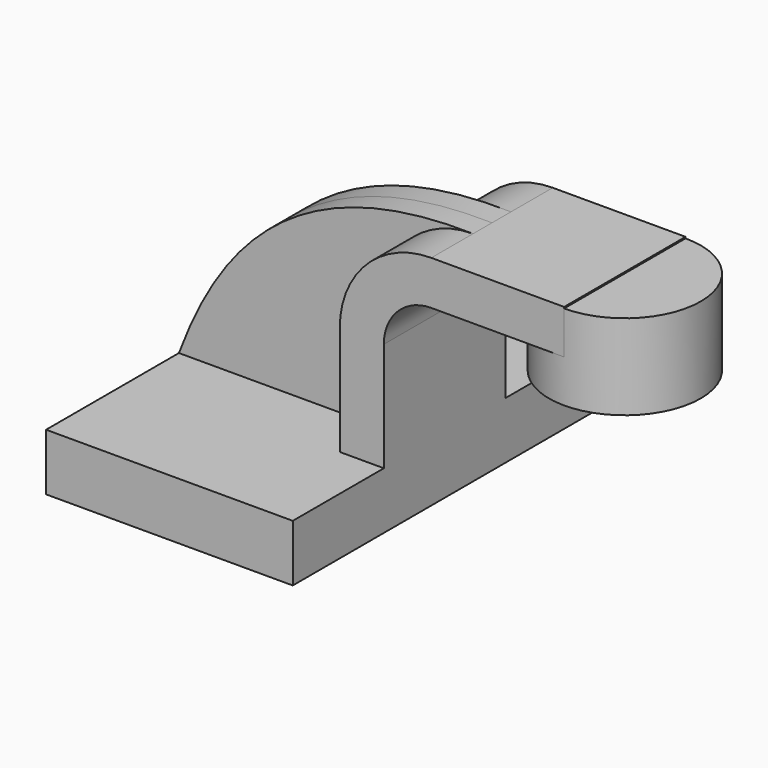
from build123d import *

# Parameters (mm, degrees)
F1_DEPTH = 63.5
F0_W     = 25.4
F0_H     = 14.2875
F2_DEPTH = 25.4
F3_DEPTH = 7.9375


with BuildPart() as f1:
    # F0 (on Front) → F1 (new body, symmetric)
    with BuildSketch(Plane.XZ):
        Polygon((41.275, -9.525), (41.275, 9.525), (26.524457, 9.525), (-41.275, 9.525), (-41.275, -9.525), align=None)
    extrude(amount=F1_DEPTH, both=True)

    # F0 (on Front) → F2 (join, symmetric)
    with BuildSketch(Plane.XZ):
        with BuildLine():
            Line((26.524457, 9.525), (41.275, 9.525))
            Line((41.275, 9.525), (41.275, 46.0502))
            ThreePointArc((41.275, 46.0502), (45.92468, 57.27552), (57.15, 61.9252))
            Line((57.15, 61.9252), (76.2, 61.9252))
            Line((76.2, 61.9252), (76.2, 76.2127))
            Line((76.2, 76.2127), (101.6, 76.2127))
            Line((101.6, 76.2127), (101.6, 76.675743))
            Line((101.6, 76.675743), (57.15, 76.675743))
            ThreePointArc((57.15, 76.675743), (35.494471, 67.705729), (26.524457, 46.0502))
            Line((26.524457, 46.0502), (26.524457, 9.525))
        make_face()
        with Locations((88.9, 69.06895)):
            Rectangle(F0_W, F0_H)
    extrude(amount=F2_DEPTH, both=True)

    # F0 (on Front) → F3 (join, symmetric)
    with BuildSketch(Plane.XZ):
        with BuildLine():
            Line((-41.275, 9.525), (26.524457, 9.525))
            Line((26.524457, 9.525), (26.524457, 46.0502))
            ThreePointArc((26.524457, 46.0502), (35.494471, 67.705729), (57.15, 76.675743))
            add(Edge.make_bspline(
                [(-41.275, 9.525), (-28.42545, 44.060338), (-4.196861, 78.073546), (57.15, 76.675743)],
                knots=[0, 0, 0, 0, 119.149918, 119.149918, 119.149918, 119.149918], degree=3))
        make_face()
    extrude(amount=F3_DEPTH, both=True)

    # F0 (on Front) → F4 (revolve)
    with BuildSketch(Plane.XZ):
        Polygon((101.6, 76.2127), (101.6, 61.9252), (101.6, 47.6377), (127, 47.6377), (127, 76.2127), align=None)
    revolve(axis=Axis((101.6, 0, 62.156721), (0, 0, 1)))


solid = f1.part
